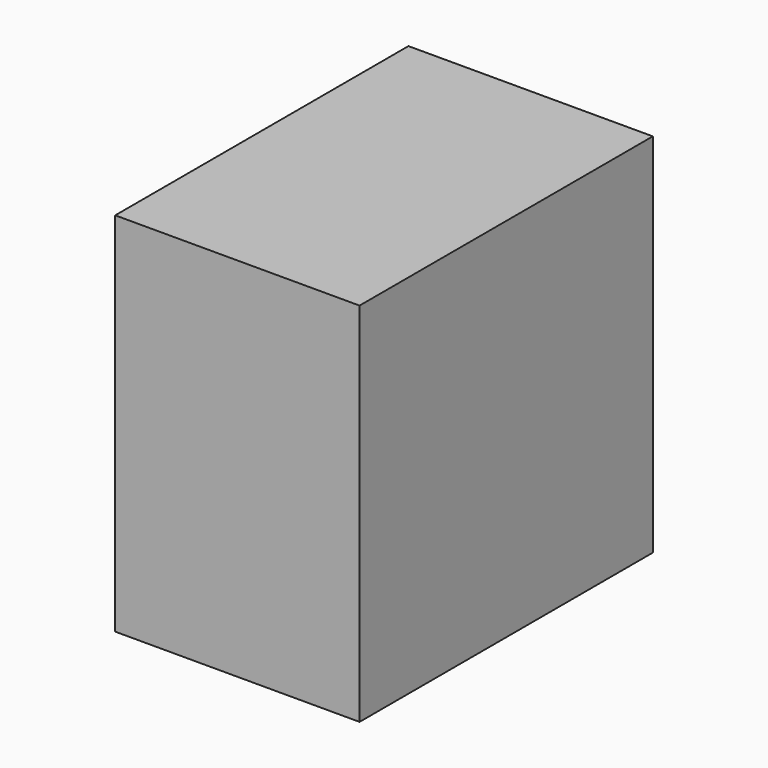
from build123d import *

# Parameters (mm, degrees)
OBJ1     = 20
OBJ2     = 30
OBJ3 = 30


with BuildPart() as part:
    with BuildSketch(Plane(origin=(-15, -10, 30), x_dir=(1, 0, 0), z_dir=(0, 0, 1))):
        with Locations((10, 15)):
            Rectangle(OBJ1, OBJ2)
    extrude(amount=OBJ3)


solid = part.part
